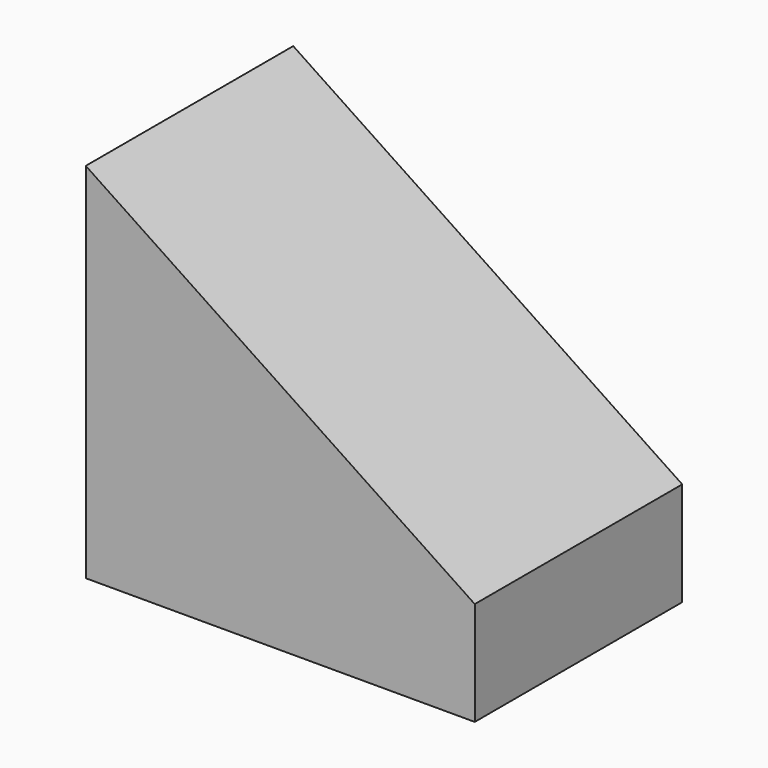
from build123d import *

# Parameters (mm, degrees)
F1_DEPTH      = 5
F1_DEPTH_BACK = 5
F2_R          = 2.074
F3_DEPTH      = 4.5


with BuildPart() as f1:
    # F0 (on Front) → F1 (new body, two sides)
    with BuildSketch(Plane.XZ) as f1_sk:
        Polygon((15, 4), (0, 14), (0, 0), (15, 0), align=None)
    extrude(amount=F1_DEPTH)
    extrude(f1_sk.sketch, amount=-F1_DEPTH_BACK)

    # F2 (on face) → F3 (cut)
    with BuildSketch(Plane(origin=(0, 0, 0), x_dir=(1, 0, 0), z_dir=(0, 0, -1))):
        with Locations((3.5, 0)):
            Circle(F2_R)
        with Locations((11.5, 0)):
            Circle(F2_R)
    extrude(amount=-F3_DEPTH, mode=Mode.SUBTRACT)


solid = f1.part
